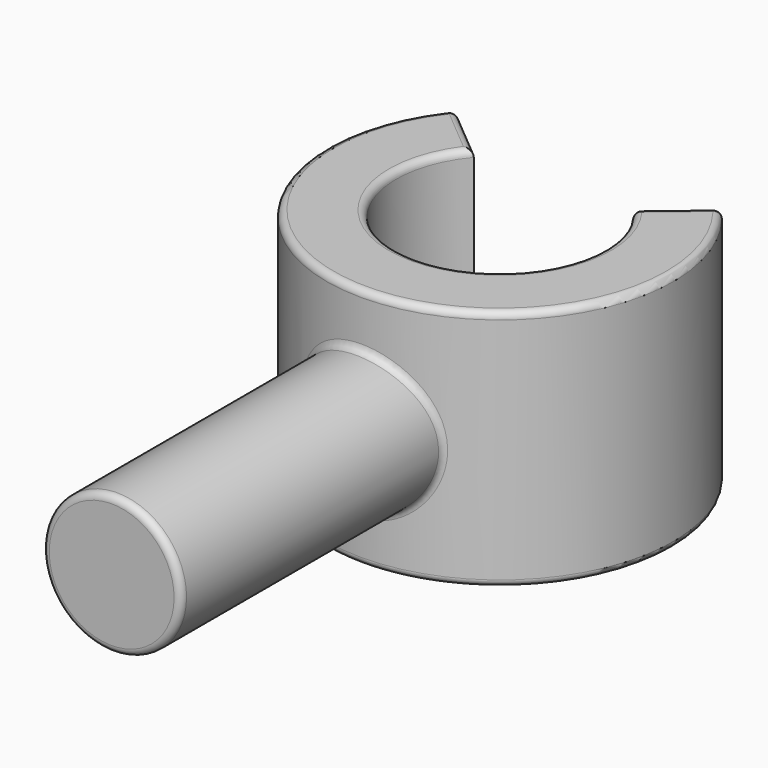
from build123d import *

# Parameters (mm, degrees)
F1_DEPTH = 3.5
F3_R     = 1
F5_R     = 0.1


with BuildPart() as f1:
    # F0 (on Top) → F1 (new body)
    with BuildSketch(Plane.XY):
        with BuildLine():
            ThreePointArc((1.1490666647, 0.9641814145), (0, -1.5), (-1.1490666647, 0.9641814145))
            Line((-1.1490666647, 0.9641814145), (-1.9151111078, 1.6069690242))
            ThreePointArc((-1.9151111078, 1.6069690242), (0, -2.5), (1.9151111078, 1.6069690242))
            Line((1.9151111078, 1.6069690242), (1.1490666647, 0.9641814145))
        make_face()
    extrude(amount=F1_DEPTH)

    # F3 (on offset) → F4 (join, up to the next surface of F1)
    with BuildSketch(Plane.XZ.offset(7)):
        with Locations((0, 1.7116522619)):
            Circle(F3_R)
    extrude(until=Until.NEXT, dir=(0, 1, 0))

    # F5
    f5_edges = [f1.edges().sort_by_distance(p)[0] for p in [
        (-1, -7, 1.711652),
        (1, -4.645644, 1.711652),
        (-1, -2.291288, 1.711652),
        (1.915111, 1.606969, 1.75),
        (1.149067, 0.964181, 1.75),
        (1.532089, 1.285575, 0),
        (1.532089, 1.285575, 3.5),
        (0, -1.5, 0),
        (-1.532089, 1.285575, 0),
        (0, -2.5, 0),
        (-1.915111, 1.606969, 1.75),
        (0, -2.5, 3.5),
        (0, -1.5, 3.5),
        (-1.532089, 1.285575, 3.5),
    ]]
    fillet(f5_edges, radius=F5_R)


solid = f1.part
